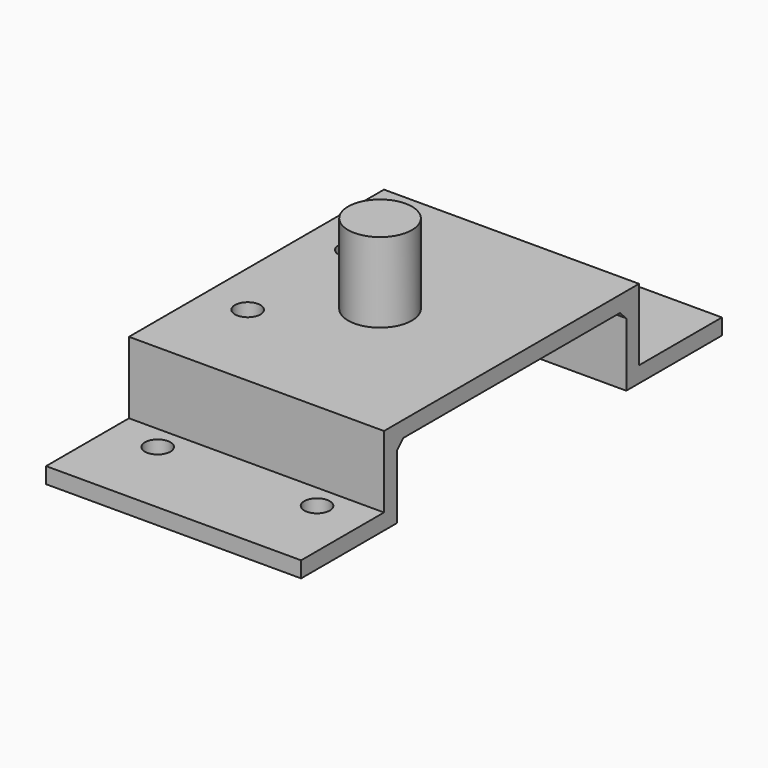
from build123d import *

# Parameters (mm, degrees)
CYLINDER101_R     = 1.6
CYLINDER101_DEPTH = 3
CYLINDER102_R     = 1.6
CYLINDER102_DEPTH = 3
CYLINDER103_R     = 1.6
CYLINDER103_DEPTH = 3
CYLINDER145_R     = 1.6
CYLINDER145_DEPTH = 3
CYLINDER146_R     = 1.6
CYLINDER146_DEPTH = 3
CYLINDER100_R     = 1.6
CYLINDER100_DEPTH = 3
BOX079_W          = 32
BOX079_H          = 7
BOX079_DEPTH      = 2
BOX014_W          = 32
BOX014_H          = 40
BOX014_DEPTH      = 2
BOX080_W          = 32
BOX080_H          = 7
BOX080_DEPTH      = 2
BOX078_W          = 32
BOX078_H          = 15
BOX078_DEPTH      = 2
CYLINDER_R        = 4
CYLINDER_DEPTH    = 10
BOX077_W          = 32
BOX077_H          = 15
BOX077_DEPTH      = 2
CHAMFER003_SIZE   = 1


with BuildPart() as cylinder101:
    # Cylinder101 → Cylinder101 (new body)
    with BuildSketch(Plane(origin=(47.5, -22, 7), x_dir=(1, 0, 0), z_dir=(0, 0, 1))):
        Circle(CYLINDER101_R)
    extrude(amount=CYLINDER101_DEPTH)


with BuildPart() as cylinder102:
    # Cylinder102 → Cylinder102 (new body)
    with BuildSketch(Plane(origin=(47.5, -68, 7), x_dir=(1, 0, 0), z_dir=(0, 0, 1))):
        Circle(CYLINDER102_R)
    extrude(amount=CYLINDER102_DEPTH)


with BuildPart() as cylinder103:
    # Cylinder103 → Cylinder103 (new body)
    with BuildSketch(Plane(origin=(27.5, -68, 7), x_dir=(1, 0, 0), z_dir=(0, 0, 1))):
        Circle(CYLINDER103_R)
    extrude(amount=CYLINDER103_DEPTH)


with BuildPart() as cylinder145:
    # Cylinder145 → Cylinder145 (new body)
    with BuildSketch(Plane(origin=(27, -37, 15), x_dir=(1, 0, 0), z_dir=(0, 0, 1))):
        Circle(CYLINDER145_R)
    extrude(amount=CYLINDER145_DEPTH)


with BuildPart() as cylinder146:
    # Cylinder146 → Cylinder146 (new body)
    with BuildSketch(Plane(origin=(27, -53.25, 15), x_dir=(1, 0, 0), z_dir=(0, 0, 1))):
        Circle(CYLINDER146_R)
    extrude(amount=CYLINDER146_DEPTH)


with BuildPart() as fusion046:
    # Cylinder100 → Cylinder100 (new body)
    with BuildSketch(Plane(origin=(27.5, -22, 7), x_dir=(1, 0, 0), z_dir=(0, 0, 1))):
        Circle(CYLINDER100_R)
    extrude(amount=CYLINDER100_DEPTH)

    # Fusion046: union Cylinder101, Cylinder102, Cylinder103, Cylinder145, Cylinder146
    add(cylinder101.part)
    add(cylinder102.part)
    add(cylinder103.part)
    add(cylinder145.part)
    add(cylinder146.part)


with BuildPart() as fusion046_1:
    # Fusion046 placement: moved
    add(fusion046.part.moved(Location((0, 25, 9))))


with BuildPart() as cube079:
    # Box079 → Box079 (new body)
    with BuildSketch(Plane(origin=(21.5, 0, 18), x_dir=(1, 0, 0), z_dir=(0, -1, 0))):
        with Locations((16, 3.5)):
            Rectangle(BOX079_W, BOX079_H)
    extrude(amount=BOX079_DEPTH)


with BuildPart() as cube014:
    # Box014 → Box014 (new body)
    with BuildSketch(Plane(origin=(21.5, -40, 25), x_dir=(1, 0, 0), z_dir=(0, 0, 1))):
        with Locations((16, 20)):
            Rectangle(BOX014_W, BOX014_H)
    extrude(amount=BOX014_DEPTH)


with BuildPart() as cube080:
    # Box080 → Box080 (new body)
    with BuildSketch(Plane(origin=(21.5, -38, 18), x_dir=(1, 0, 0), z_dir=(0, -1, 0))):
        with Locations((16, 3.5)):
            Rectangle(BOX080_W, BOX080_H)
    extrude(amount=BOX080_DEPTH)


with BuildPart() as cube078:
    # Box078 → Box078 (new body)
    with BuildSketch(Plane(origin=(21.5, -53, 16), x_dir=(1, 0, 0), z_dir=(0, 0, 1))):
        with Locations((16, 7.5)):
            Rectangle(BOX078_W, BOX078_H)
    extrude(amount=BOX078_DEPTH)


with BuildPart() as cylinder:
    # Cylinder → Cylinder (new body)
    with BuildSketch(Plane(origin=(37, -20, 27), x_dir=(1, 0, 0), z_dir=(0, 0, 1))):
        Circle(CYLINDER_R)
    extrude(amount=CYLINDER_DEPTH)


with BuildPart() as chamfer003:
    # Box077 → Box077 (new body)
    with BuildSketch(Plane(origin=(21.5, -2, 16), x_dir=(1, 0, 0), z_dir=(0, 0, 1))):
        with Locations((16, 7.5)):
            Rectangle(BOX077_W, BOX077_H)
    extrude(amount=BOX077_DEPTH)

    # Fusion105: union Cube079, Cube014, Cube080, Cube078, Cylinder
    add(cube079.part)
    add(cube014.part)
    add(cube080.part)
    add(cube078.part)
    add(cylinder.part)

    # Cut083: cut Fusion046
    add(fusion046_1.part, mode=Mode.SUBTRACT)

    # Chamfer003
    chamfer003_edges = [chamfer003.edges().sort_by_distance(p)[0] for p in [
        (37.5, -2, 25),
        (37.5, -38, 25),
    ]]
    chamfer(chamfer003_edges, length=CHAMFER003_SIZE)


solid = chamfer003.part
